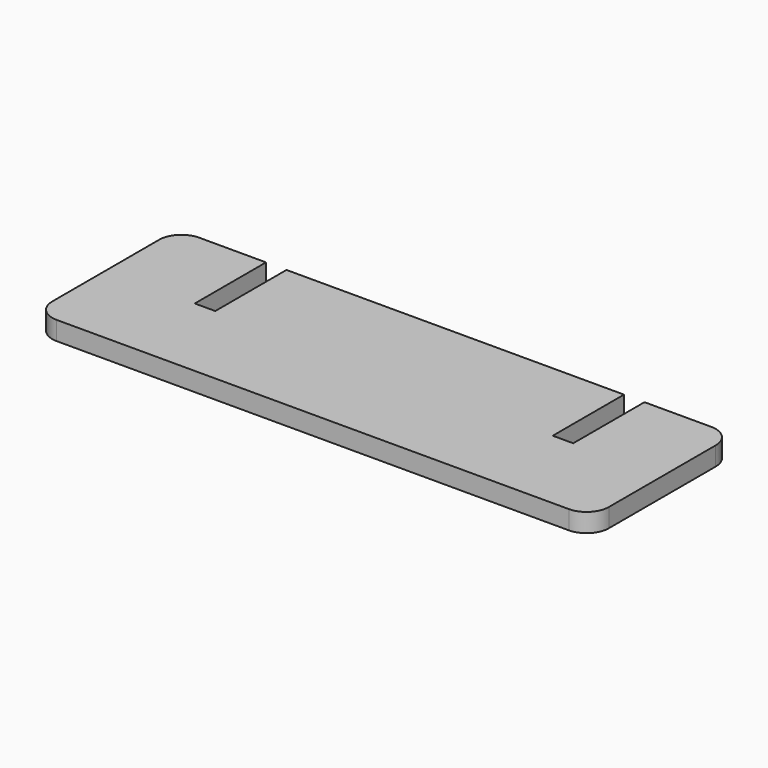
from build123d import *

# Parameters (mm, degrees)
F1_DEPTH = 5.334


with BuildPart() as f1:
    # F0 (on Top) → F1 (new body)
    with BuildSketch(Plane.XY):
        with BuildLine():
            Line((-91.704233, 15.719872), (-110.754233, 15.719872))
            ThreePointArc((-110.754233, 15.719872), (-115.244361, 13.86), (-117.104233, 9.369872))
            Line((-117.104233, 9.369872), (-117.104233, -28.730128))
            ThreePointArc((-117.104233, -28.730128), (-115.244361, -33.220256), (-110.754233, -35.080128))
            Line((-110.754233, -35.080128), (35.295767, -35.080128))
            ThreePointArc((35.295767, -35.080128), (39.785895, -33.220256), (41.645767, -28.730128))
            Line((41.645767, -28.730128), (41.645767, 9.369872))
            ThreePointArc((41.645767, 9.369872), (39.785895, 13.86), (35.295767, 15.719872))
            Line((35.295767, 15.719872), (16.245767, 15.719872))
            Line((16.245767, 15.719872), (16.245767, -9.680128))
            Line((16.245767, -9.680128), (10.403767, -9.680128))
            Line((10.403767, -9.680128), (10.403767, 15.719872))
            Line((10.403767, 15.719872), (-85.862233, 15.719872))
            Line((-85.862233, 15.719872), (-85.862233, -9.680128))
            Line((-85.862233, -9.680128), (-91.704233, -9.680128))
            Line((-91.704233, -9.680128), (-91.704233, 15.719872))
        make_face()
    extrude(amount=F1_DEPTH)


solid = f1.part
